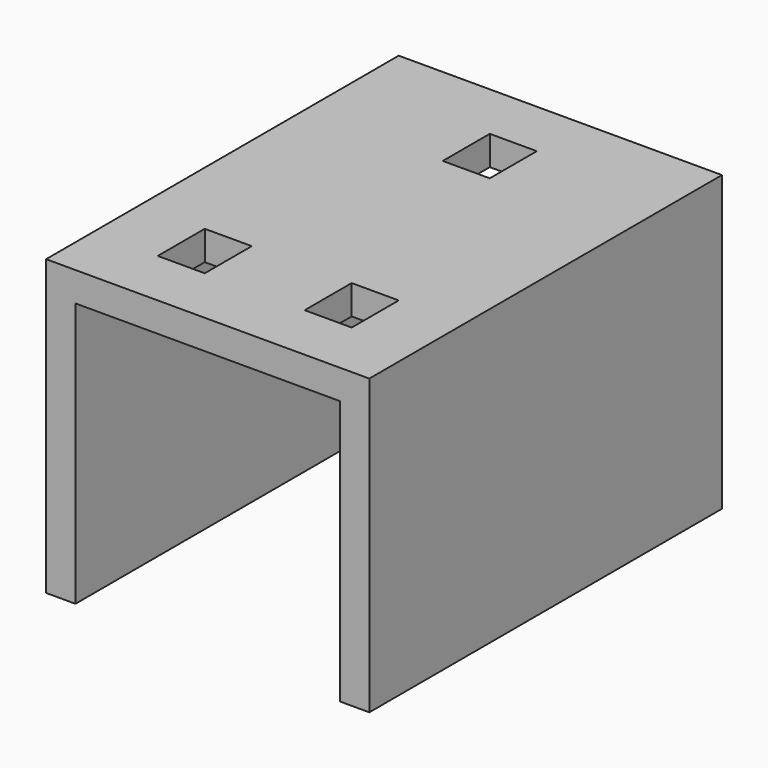
from build123d import *

# Parameters (mm, degrees)
F0_W     = 27.94
F0_H     = 38.1
F1_DEPTH = 25.4
F3_T     = -2.54
F2_W     = 4.064
F2_H     = 5.08
F4_DEPTH = 25.4


with BuildPart() as f1:
    # F0 (on Top) → F1 (new body)
    with BuildSketch(Plane.XY):
        Rectangle(F0_W, F0_H)
    extrude(amount=F1_DEPTH)

    # F3
    f3_openings = [f1.faces().sort_by_distance(p)[0] for p in [
        (0, -19.05, 12.7),
        (0, 0, 0),
        (0, 19.05, 12.7),
    ]]
    offset(amount=F3_T, openings=f3_openings)

    # F2 (on face) → F4 (cut)
    with BuildSketch(Plane.XY.offset(25.4)):
        with Locations((0, 11.43)):
            Rectangle(F2_W, F2_H)
        with Locations((-6.35, -11.43)):
            Rectangle(F2_W, F2_H)
        with Locations((6.35, -11.43)):
            Rectangle(F2_W, F2_H)
    extrude(amount=-F4_DEPTH, mode=Mode.SUBTRACT)


solid = f1.part
